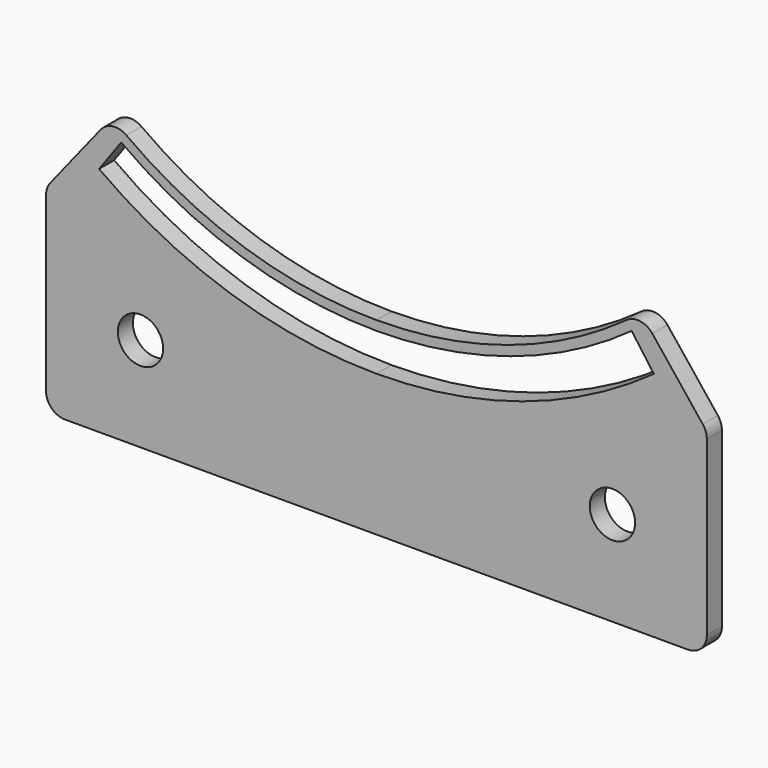
from build123d import *

# Parameters (mm, degrees)
F1_DEPTH = 1
F2_R     = 2
F3_R     = 2.4
F4_DEPTH = 25
F5_R     = 2


with BuildPart() as f1:
    # F0 (on Front) → F1 (new body, symmetric)
    with BuildSketch(Plane.XZ):
        with BuildLine():
            ThreePointArc((28.013159, -35.217367), (14.836079, -42.484006), (0, -45))
            ThreePointArc((0, -45), (-14.836079, -42.484006), (-28.013159, -35.217367))
            Line((-28.013159, -35.217367), (-35, -44.00103))
            Line((-35, -44.00103), (-35, -65))
            Line((-35, -65), (35, -65))
            Line((35, -65), (35, -44.00103))
            Line((35, -44.00103), (28.013159, -35.217367))
        make_face()
        with BuildLine():
            ThreePointArc((0, -50), (-15.45085, -47.552826), (-29.389263, -40.45085))
            Line((-29.389263, -40.45085), (-27.038122, -37.214782))
            ThreePointArc((-27.038122, -37.214782), (-14.214782, -43.7486), (0, -46))
            ThreePointArc((0, -46), (14.214782, -43.7486), (27.038122, -37.214782))
            Line((27.038122, -37.214782), (29.389263, -40.45085))
            ThreePointArc((29.389263, -40.45085), (15.45085, -47.552826), (0, -50))
        make_face(mode=Mode.SUBTRACT)
    extrude(amount=F1_DEPTH, both=True)

    # F2
    f2_edges = [f1.edges().sort_by_distance(p)[0] for p in [
        (28.013159, 0, -35.217367),
        (35, 0, -44.00103),
        (-28.013159, 0, -35.217367),
        (-35, 0, -44.00103),
    ]]
    fillet(f2_edges, radius=F2_R)

    # F3 (on face) → F4 (cut)
    with BuildSketch(Plane.XZ.offset(1)):
        with Locations((-25, -55)):
            Circle(F3_R)
        with Locations((25, -55)):
            Circle(F3_R)
    extrude(amount=-F4_DEPTH, mode=Mode.SUBTRACT)

    # F5
    f5_edges = [f1.edges().sort_by_distance(p)[0] for p in [
        (35, 0, -65),
        (-35, 0, -65),
    ]]
    fillet(f5_edges, radius=F5_R)


solid = f1.part
